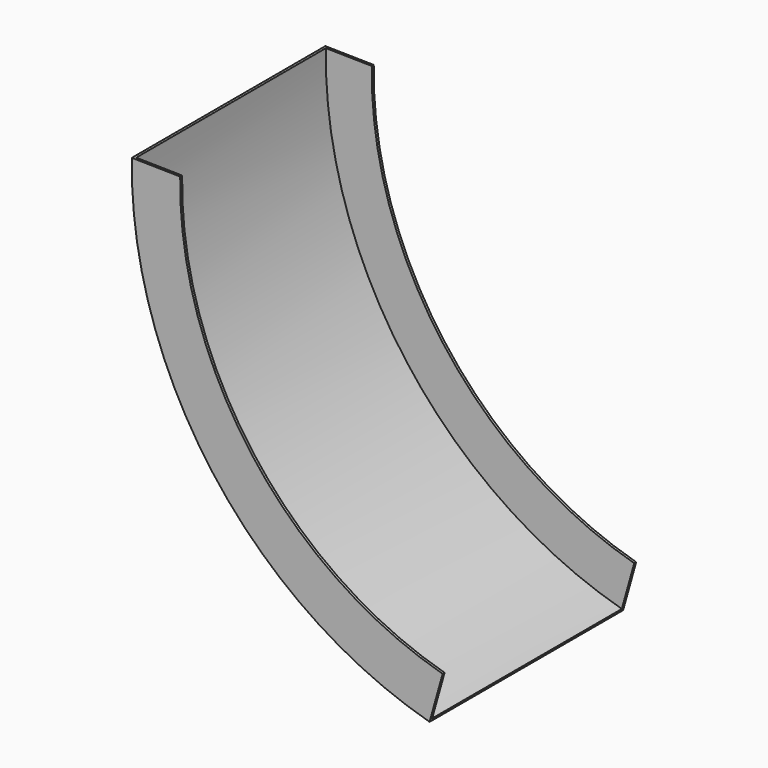
from build123d import *

# Parameters (mm, degrees)
F1_DEPTH = 254
F2_T     = -2.54


with BuildPart() as f1:
    # F0 (on Front) → F1 (new body)
    with BuildSketch(Plane.XZ):
        with BuildLine():
            Line((-384.231603, -0.877004), (-435.024024, 0))
            ThreePointArc((-435.024024, 0), (-350.2964, -263.195684), (-122.396574, -419.76007))
            Line((-122.396574, -419.76007), (-108.688443, -370.844568))
            ThreePointArc((-108.688443, -370.844568), (-309.554484, -232.852061), (-384.231603, -0.877004))
        make_face()
    extrude(amount=F1_DEPTH)

    # F2
    f2_openings = [f1.faces().sort_by_distance(p)[0] for p in [
        (-309.554484, -127, -232.852061),
        (-115.542508, -127, -395.302319),
        (-409.627814, -127, -0.438502),
    ]]
    offset(amount=F2_T, openings=f2_openings)


solid = f1.part
